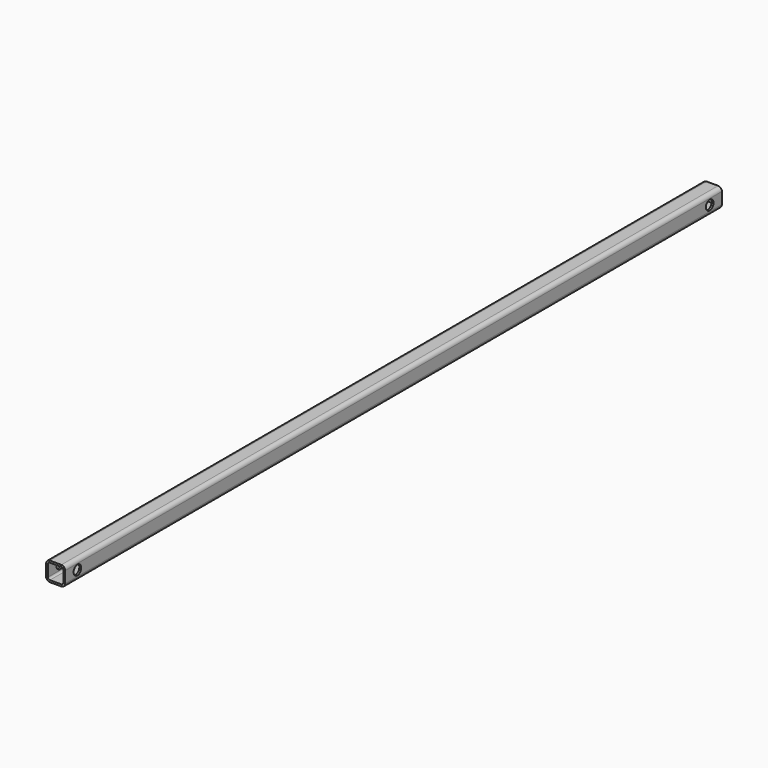
from build123d import *

# Parameters (mm, degrees)
F1_DEPTH = 537
F2_R     = 6.25
F3_DEPTH = 25.001


with BuildPart() as f1:
    # F0 (on Front) → F1 (new body, symmetric)
    with BuildSketch(Plane.XZ):
        with BuildLine():
            ThreePointArc((12.5, 7.5), (11.035534, 11.035534), (7.5, 12.5))
            Line((7.5, 12.5), (-7.5, 12.5))
            ThreePointArc((-7.5, 12.5), (-11.035534, 11.035534), (-12.5, 7.5))
            Line((-12.5, 7.5), (-12.5, -7.5))
            ThreePointArc((-12.5, -7.5), (-11.035534, -11.035534), (-7.5, -12.5))
            Line((-7.5, -12.5), (7.5, -12.5))
            ThreePointArc((7.5, -12.5), (11.035534, -11.035534), (12.5, -7.5))
            Line((12.5, -7.5), (12.5, 7.5))
        make_face()
        with BuildLine():
            Line((-7.5, 10), (7.5, 10))
            ThreePointArc((7.5, 10), (9.267767, 9.267767), (10, 7.5))
            Line((10, 7.5), (10, -7.5))
            ThreePointArc((10, -7.5), (9.267767, -9.267767), (7.5, -10))
            Line((7.5, -10), (-7.5, -10))
            ThreePointArc((-7.5, -10), (-9.267767, -9.267767), (-10, -7.5))
            Line((-10, -7.5), (-10, 7.5))
            ThreePointArc((-10, 7.5), (-9.267767, 9.267767), (-7.5, 10))
        make_face(mode=Mode.SUBTRACT)
    extrude(amount=F1_DEPTH, both=True)

    # F2 (on face) → F3 (cut, through all)
    with BuildSketch(Plane.YZ.offset(12.5)):
        with Locations((-517, 0)):
            Circle(F2_R)
        with Locations((517, 0)):
            Circle(F2_R)
    extrude(amount=-F3_DEPTH, mode=Mode.SUBTRACT)


solid = f1.part
